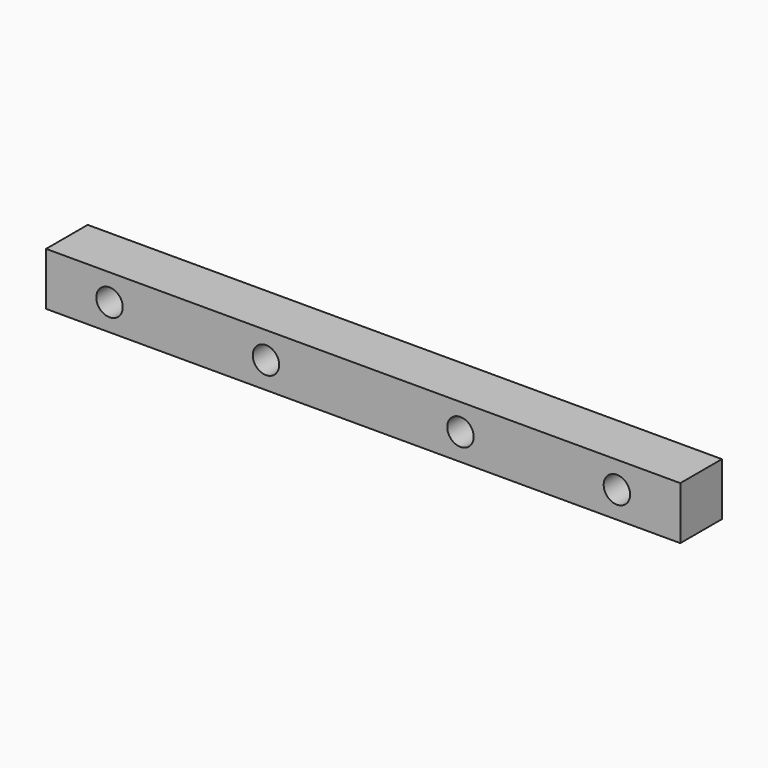
from build123d import *

# Parameters (mm, degrees)
F0_W     = 38.1
F0_H     = 3.1242
F1_DEPTH = 3.175
F2_R     = 0.79375
F3_DEPTH = 25.4


with BuildPart() as f1:
    # F0 (on Top) → F1 (new body)
    with BuildSketch(Plane.XY):
        with Locations((0, 1.5621)):
            Rectangle(F0_W, F0_H)
    extrude(amount=F1_DEPTH)

    # F2 (on face) → F3 (cut)
    with BuildSketch(Plane.XZ):
        with Locations((-15.24, 1.5875)):
            Circle(F2_R)
        with Locations((-5.842, 1.5875)):
            Circle(F2_R)
        with Locations((5.842, 1.5875)):
            Circle(F2_R)
        with Locations((15.24, 1.5875)):
            Circle(F2_R)
    extrude(amount=-F3_DEPTH, mode=Mode.SUBTRACT)


solid = f1.part
